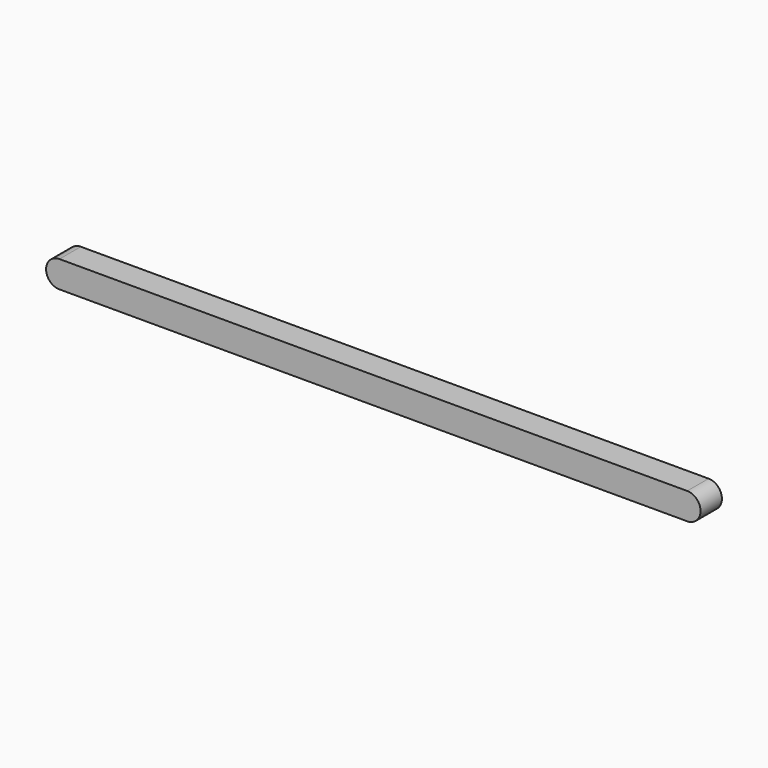
from build123d import *

# Parameters (mm, degrees)
F0_W     = 141
F0_H     = 6
F1_DEPTH = 6


with BuildPart() as f1:
    # F0 (on Front) → F1 (new body)
    with BuildSketch(Plane.XZ):
        with Locations((70.5, 3)):
            Rectangle(F0_W, F0_H)
        with BuildLine():
            Line((141, 6), (141, 0))
            ThreePointArc((141, 0), (144, 3), (141, 6))
        make_face()
        with BuildLine():
            ThreePointArc((0, 6), (-3, 3), (0, 0))
            Line((0, 0), (0, 6))
        make_face()
    extrude(amount=F1_DEPTH)


solid = f1.part
